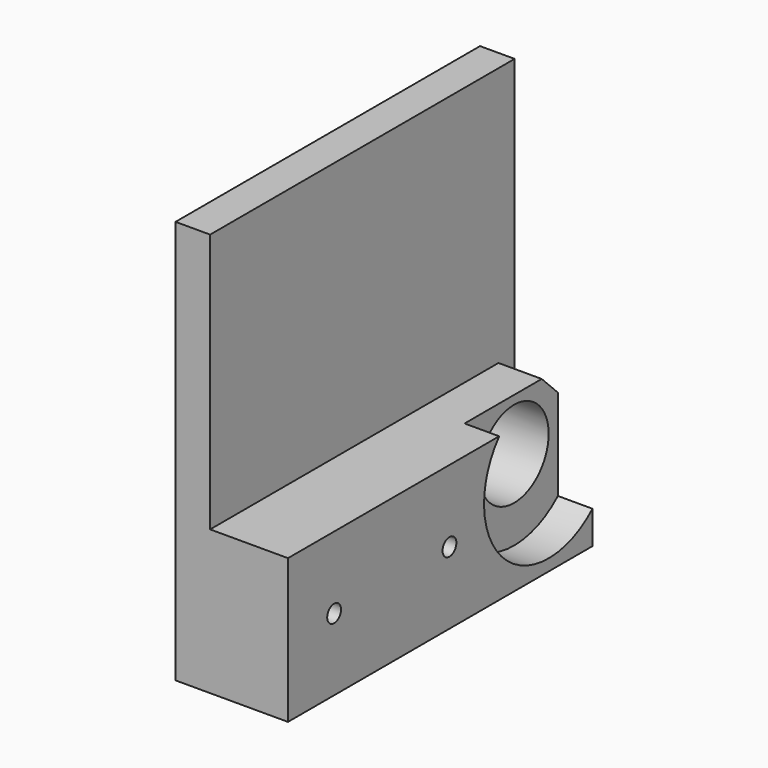
from build123d import *

# Parameters (mm, degrees)
F1_DEPTH        = 66
F2_R            = 7.5
F3_DEPTH        = 19.501
F5_DEPTH        = 6
F7_DEPTH        = 13.5
F8_R            = 1.5
F9_DEPTH        = 6.001
F11_D           = 3
F11_CSINK_D     = 7.5
F11_CSINK_ANGLE = 90


with BuildPart() as f1:
    # F0 (on Front) → F1 (new body)
    with BuildSketch(Plane.XZ):
        Polygon((0, 70), (0, 0), (19.5, 0), (19.5, 25), (6, 25), (6, 70), align=None)
    extrude(amount=F1_DEPTH)

    # F2 (on face) → F3 (cut, through all)
    with BuildSketch(Plane.YZ.offset(19.5)):
        with Locations((-9.5, 16)):
            Circle(F2_R)
    extrude(amount=-F3_DEPTH, mode=Mode.SUBTRACT)

    # F4 (on face) → F5 (cut)
    with BuildSketch(Plane.YZ.offset(19.5)):
        with BuildLine():
            Line((0, 25), (-20.223805, 25))
            ThreePointArc((-20.223805, 25), (-19.161138, 5.867754), (0, 5.716518))
            Line((0, 5.716518), (0, 25))
        make_face()
    extrude(amount=-F5_DEPTH, mode=Mode.SUBTRACT)

    # F6 (on face) → F7 (cut)
    with BuildSketch(Plane.YZ.offset(19.5)):
        Polygon((-3.5, 25), (0, 21.5), (0, 25), align=None)
    extrude(amount=-F7_DEPTH, mode=Mode.SUBTRACT)

    # F8 (on face) → F9 (cut, through all)
    with BuildSketch(Plane.YZ.offset(6)):
        with Locations((-17.5, 82.5)):
            Circle(F8_R)
        with Locations((-48.5, 82.5)):
            Circle(F8_R)
    extrude(amount=-F9_DEPTH, mode=Mode.SUBTRACT)

    # F11 (through all)
    with Locations(Plane(origin=(0, 0, 0), x_dir=(0, -1, 0), z_dir=(-1, 0, 0))):
        with Locations((31, 12.5), (56, 12.5), (56, 12.5)):
            CounterSinkHole(F11_D / 2, F11_CSINK_D / 2, counter_sink_angle=F11_CSINK_ANGLE)


solid = f1.part
